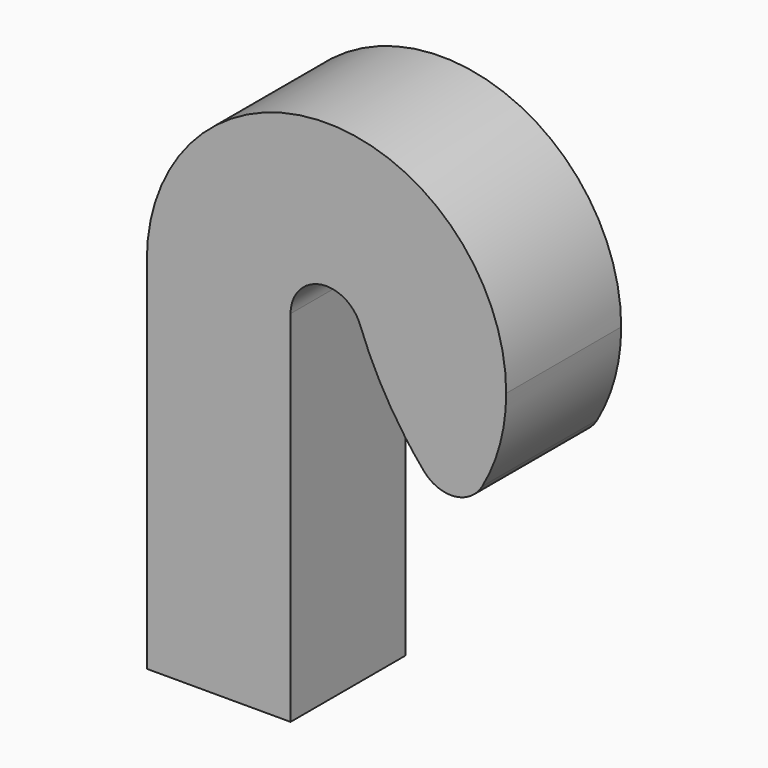
from build123d import *

# Parameters (mm, degrees)
F0_W     = 2
F0_H     = 5
F1_DEPTH = 2
F2_R     = 5
F3_R     = 0.5


with BuildPart() as f1:
    # F0 (on Front) → F1 (new body)
    with BuildSketch(Plane.XZ):
        with Locations((1, 2.5)):
            Rectangle(F0_W, F0_H)
        with BuildLine():
            ThreePointArc((5, 5), (2.5, 7.5), (0, 5))
            Line((0, 5), (2, 5))
            ThreePointArc((2, 5), (2.5, 5.5), (3, 5))
            Line((3, 5), (5, 5))
        make_face()
        with BuildLine():
            ThreePointArc((4.272967, 3.237449), (4.811106, 4.046695), (5, 5))
            Line((5, 5), (3, 5))
            ThreePointArc((3, 5), (2.962221, 4.809339), (2.854593, 4.64749))
            Line((2.854593, 4.64749), (4.272967, 3.237449))
        make_face()
    extrude(amount=F1_DEPTH)

    # F2
    f2_edges = [f1.edges().sort_by_distance(p)[0] for p in [
        (2.854593, -1, 4.64749),
    ]]
    fillet(f2_edges, radius=F2_R)

    # F3
    f3_edges = [f1.edges().sort_by_distance(p)[0] for p in [
        (4.272967, -1, 3.237449),
    ]]
    fillet(f3_edges, radius=F3_R)


solid = f1.part
